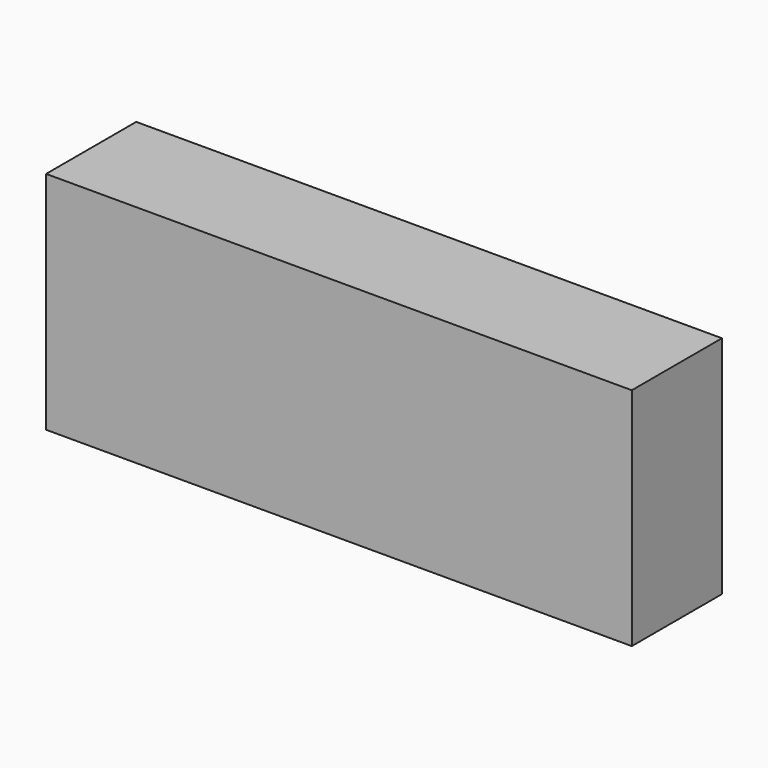
from build123d import *

# Parameters (mm, degrees)
SKETCH_W      = 130
SKETCH_H      = 25
EXTRUDE_DEPTH = 50


with BuildPart() as part:
    # Sketch → Extrude (new body)
    with BuildSketch(Plane.XY):
        Rectangle(SKETCH_W, SKETCH_H)
    extrude(amount=EXTRUDE_DEPTH)


solid = part.part
